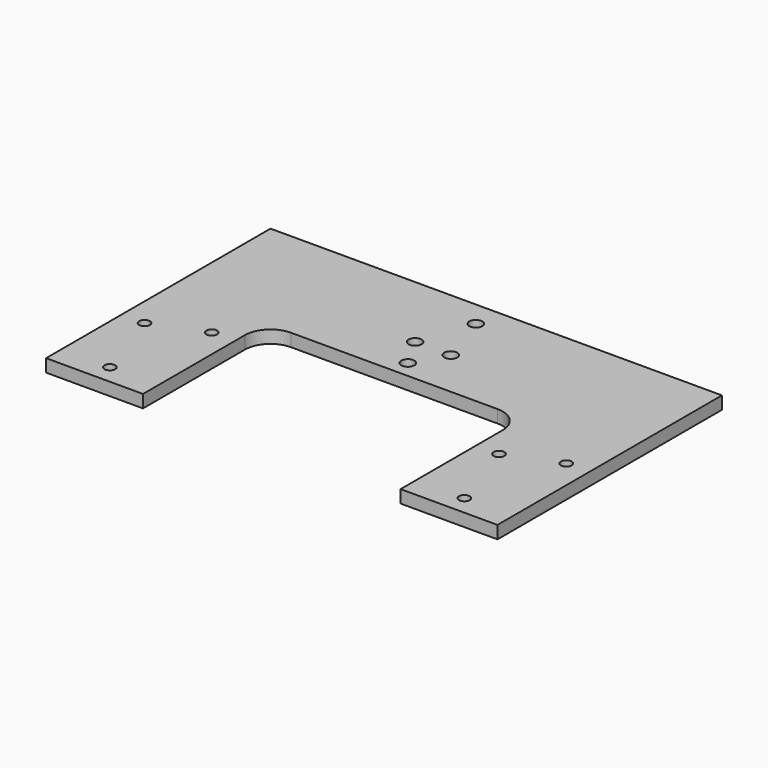
from build123d import *

# Parameters (mm, degrees)
F1_DEPTH = 5
F3_D     = 5.1
F4_R     = 2.1
F5_DEPTH = 25


with BuildPart() as f1:
    # F0 (on Top) → F1 (new body)
    with BuildSketch(Plane.XY):
        with BuildLine():
            Line((84.6812899327, 58.5268347502), (-92.3187100673, 58.5268347502))
            Line((-92.3187100673, 58.5268347502), (-92.3187100673, 8.5268347502))
            Line((-92.3187100673, 8.5268347502), (-92.3187100673, -51.4731652498))
            Line((-92.3187100673, -51.4731652498), (-54.3187100673, -51.4731652498))
            Line((-54.3187100673, -51.4731652498), (-54.3187100673, -1.4731652498))
            ThreePointArc((-54.3187100673, -1.4731652498), (-51.3897778791, 5.597902562), (-44.3187100673, 8.5268347502))
            Line((-44.3187100673, 8.5268347502), (36.6812899327, 8.5268347502))
            ThreePointArc((36.6812899327, 8.5268347502), (43.7523577446, 5.597902562), (46.6812899327, -1.4731652498))
            Line((46.6812899327, -1.4731652498), (46.6812899327, -51.4731652498))
            Line((46.6812899327, -51.4731652498), (84.6812899327, -51.4731652498))
            Line((84.6812899327, -51.4731652498), (84.6812899327, 8.5268347502))
            Line((84.6812899327, 8.5268347502), (84.6812899327, 58.5268347502))
        make_face()
    extrude(amount=F1_DEPTH)

    # F3 (through all)
    with Locations(Plane.XY.offset(5)):
        with Locations((-10.8187100673, 27.5268347502), (-3.8187100673, 48.5268347502), (3.1812899327, 27.5268347502), (-3.8187100673, 15.2268347502)):
            Hole(F3_D / 2)

    # F4 (on face) → F5 (cut)
    with BuildSketch(Plane.XY.offset(5)):
        with Locations((-63.3187100673, -6.4731652498)):
            Circle(F4_R)
        with Locations((55.6812899327, -14.4731652498)):
            Circle(F4_R)
        with Locations((-83.3187100673, -14.4731652498)):
            Circle(F4_R)
        with Locations((-73.3187100673, -43.9731652498)):
            Circle(F4_R)
        with Locations((75.6812899327, -6.4731652498)):
            Circle(F4_R)
        with Locations((65.6812899327, -43.9731652498)):
            Circle(F4_R)
    extrude(amount=-F5_DEPTH, mode=Mode.SUBTRACT)


solid = f1.part
